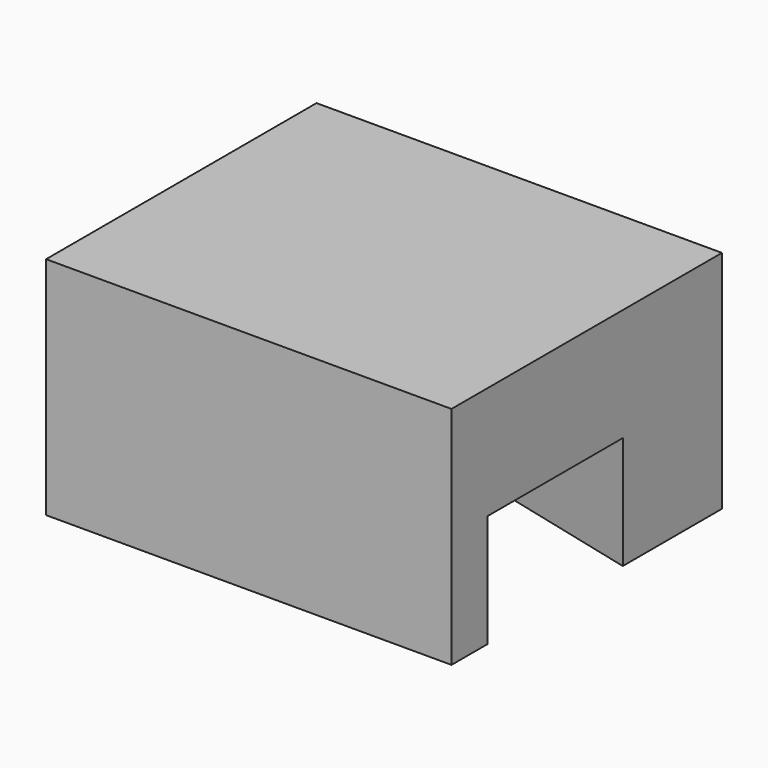
from build123d import *

# Parameters (mm, degrees)
PAD_DEPTH = 5
BOX_W     = 17.99
BOX_H     = 15
BOX_DEPTH = 10


with BuildPart() as obj1:
    # Sketch → Pad (new body)
    with BuildSketch(Plane(origin=(0, 0, 0), x_dir=(-1, 0, 0), z_dir=(0, 0, 1))):
        Polygon((0, 0), (0, -12), (-17.994986, -7.5), (-17.994986, 0), align=None)
    extrude(amount=PAD_DEPTH)


with BuildPart() as f_150mm:
    # Box → Box (new body)
    with BuildSketch(Plane(origin=(0, -2, 0), x_dir=(1, 0, 0), z_dir=(0, 0, 1))):
        with Locations((8.995, 7.5)):
            Rectangle(BOX_W, BOX_H)
    extrude(amount=BOX_DEPTH)

    # Cut: cut obj1
    add(obj1.part, mode=Mode.SUBTRACT)


solid = f_150mm.part
